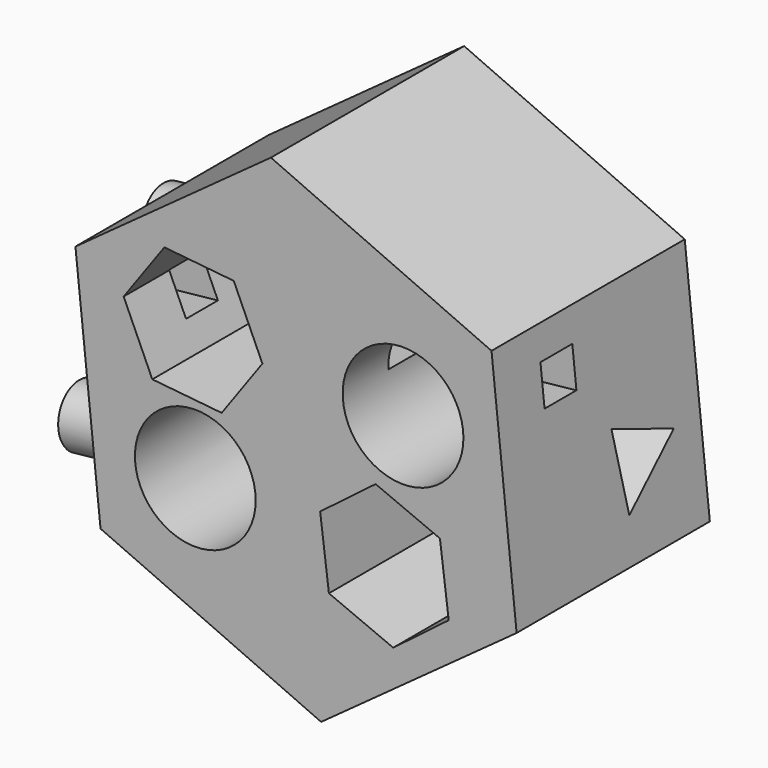
from build123d import *

# Parameters (mm, degrees)
F0_R     = 12.7
F1_DEPTH = 25.4
F2_W     = 8.3738137037
F2_H     = 8.3738137037
F3_DEPTH = 95.393597984
F4_R     = 6.35
F5_DEPTH = 12.7


with BuildPart() as f1:
    # F0 (on Front) → F1 (new body, symmetric)
    with BuildSketch(Plane.XZ):
        Polygon((5.2819887405, -50.5246533382), (46.3966276785, -20.6879902374), (41.1146389381, 29.8366631009), (-5.2819887405, 50.5246533382), (-46.3966276785, 20.6879902374), (-41.1146389381, -29.8366631009), align=None)
        with Locations((-21.185264774, -14.0123001843)):
            Circle(F0_R, mode=Mode.SUBTRACT)
        Polygon((30.2690706552, -8.4316877652), (32.1153645894, -22.9796956027), (20.4395671947, -31.8526369714), (6.9174758659, -26.1775705025), (5.0711819316, -11.6295626649), (16.7469793263, -2.7566212963), align=None, mode=Mode.SUBTRACT)
        Polygon((-13.0957929031, 25.1650677821), (-7.071361904, 11.7949681389), (-15.6379923466, -0.1073919713), (-30.2290537883, 1.3603475617), (-36.2534847874, 14.730447205), (-27.6868543448, 26.6328073152), align=None, mode=Mode.SUBTRACT)
        with Locations((22.5087539272, 11.7692819085)):
            Circle(F0_R, mode=Mode.SUBTRACT)
    extrude(amount=F1_DEPTH, both=True)

    # F2 (on face) → F3 (cut, through all)
    with BuildSketch(Plane(origin=(-43.7556333083, 0, -4.5743364318), x_dir=(0, -1, 0), z_dir=(-0.9945797901, 0, -0.1039761563))):
        with Locations((9.2308046296, 14.429773204)):
            Rectangle(F2_W, F2_H)
        Polygon((-18.4350283168, -5.9171013498), (-5.4001929887, -16.3859397209), (-2.8513306752, 0.136977993), align=None)
    extrude(amount=-F3_DEPTH, mode=Mode.SUBTRACT)


with BuildPart() as f5:
    # F4 (on face) → F5 (new body)
    with BuildSketch(Plane(origin=(-43.7556333083, 0, -4.5743364318), x_dir=(0, -1, 0), z_dir=(-0.9945797901, 0, -0.1039761563))):
        with Locations((-12.7, 12.7)):
            Circle(F4_R)
    extrude(amount=F5_DEPTH)


with BuildPart() as f5b:
    # F4 (on face) → F5, piece 2 (new body)
    with BuildSketch(Plane(origin=(-43.7556333083, 0, -4.5743364318), x_dir=(0, -1, 0), z_dir=(-0.9945797901, 0, -0.1039761563))):
        with Locations((12.7, -12.7)):
            Circle(F4_R)
    extrude(amount=F5_DEPTH)


solid = Compound([f1.part, f5.part, f5b.part])
